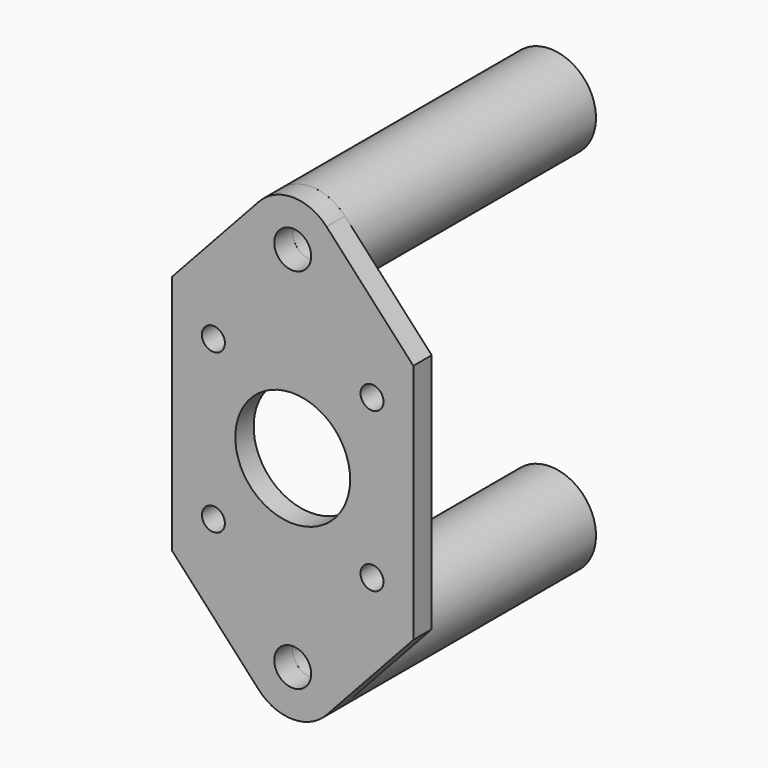
from build123d import *

# Parameters (mm, degrees)
F0_R     = 2.5527
F0_R_2   = 1.5875
F0_R_3   = 7.9375
F1_DEPTH = 3.175
F2_R     = 6.35
F2_R_2   = 2.5527
F3_DEPTH = 41.275


with BuildPart() as f1:
    # F0 (on Front) → F1 (new body)
    with BuildSketch(Plane.XZ):
        with BuildLine():
            ThreePointArc((4.671827, 29.70076), (0, 31.75), (-4.671827, 29.70076))
            Line((-4.671827, 29.70076), (-16.66875, 16.66875))
            Line((-16.66875, 16.66875), (-16.66875, -16.66875))
            Line((-16.66875, -16.66875), (-4.671827, -29.70076))
            ThreePointArc((-4.671827, -29.70076), (0, -31.75), (4.671827, -29.70076))
            Line((4.671827, -29.70076), (16.66875, -16.66875))
            Line((16.66875, -16.66875), (16.66875, 16.66875))
            Line((16.66875, 16.66875), (4.671827, 29.70076))
        make_face()
        with Locations((0, -25.4)):
            Circle(F0_R, mode=Mode.SUBTRACT)
        with Locations((-10.9601, -10.9601)):
            Circle(F0_R_2, mode=Mode.SUBTRACT)
        with Locations((10.9601, -10.9601)):
            Circle(F0_R_2, mode=Mode.SUBTRACT)
        with Locations((-10.9601, 10.9601)):
            Circle(F0_R_2, mode=Mode.SUBTRACT)
        Circle(F0_R_3, mode=Mode.SUBTRACT)
        with Locations((0, 25.4)):
            Circle(F0_R, mode=Mode.SUBTRACT)
        with Locations((10.9601, 10.9601)):
            Circle(F0_R_2, mode=Mode.SUBTRACT)
    extrude(amount=F1_DEPTH)


with BuildPart() as f3:
    # F2 (on face) → F3 (new body)
    with BuildSketch(Plane(origin=(0, 0, 0), x_dir=(-1, 0, 0), z_dir=(0, 1, 0))):
        with Locations((0, 25.4)):
            Circle(F2_R)
        with Locations((0, 25.4)):
            Circle(F2_R_2, mode=Mode.SUBTRACT)
        with Locations((0, -25.4)):
            Circle(F2_R)
        with Locations((0, -25.4)):
            Circle(F2_R_2, mode=Mode.SUBTRACT)
    extrude(amount=F3_DEPTH)


solid = Compound([f1.part, f3.part])
